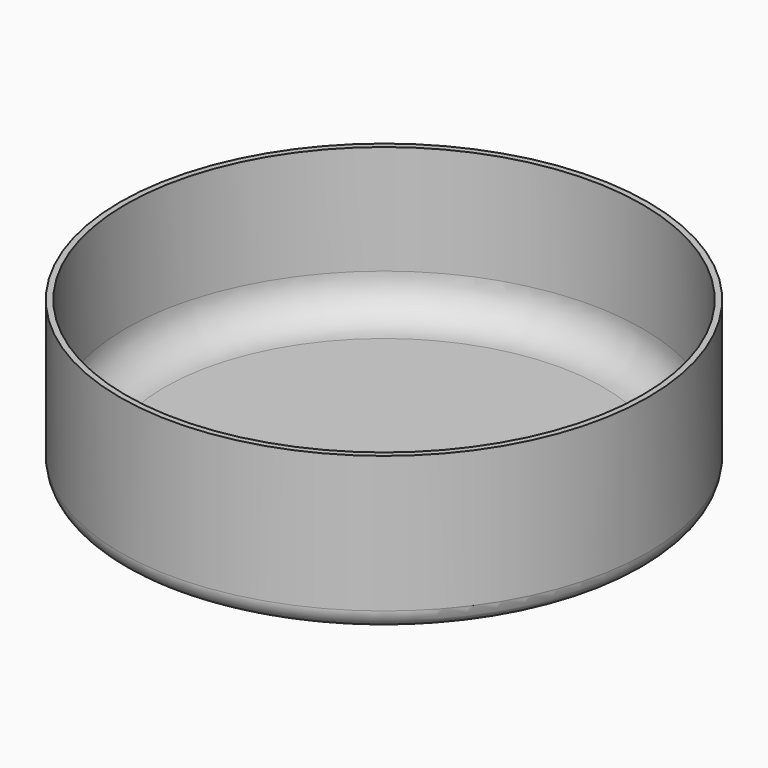
from build123d import *

# Parameters (mm, degrees)
F0_R     = 33.85
F1_DEPTH = 20
F2_R     = 33.1
F3_DEPTH = 19
F4_R     = 5
F5_R     = 2.5


with BuildPart() as f1:
    # F0 (on Top) → F1 (new body)
    with BuildSketch(Plane.XY):
        Circle(F0_R)
    extrude(amount=F1_DEPTH)

    # F2 (on face) → F3 (cut)
    with BuildSketch(Plane.XY.offset(20)):
        Circle(F2_R)
    extrude(amount=-F3_DEPTH, mode=Mode.SUBTRACT)

    # F4
    f4_edges = [f1.edges().sort_by_distance(p)[0] for p in [
        (-33.1, 0, 1),
    ]]
    fillet(f4_edges, radius=F4_R)

    # F5
    f5_edges = [f1.edges().sort_by_distance(p)[0] for p in [
        (-33.85, 0, 0),
    ]]
    fillet(f5_edges, radius=F5_R)


solid = f1.part
